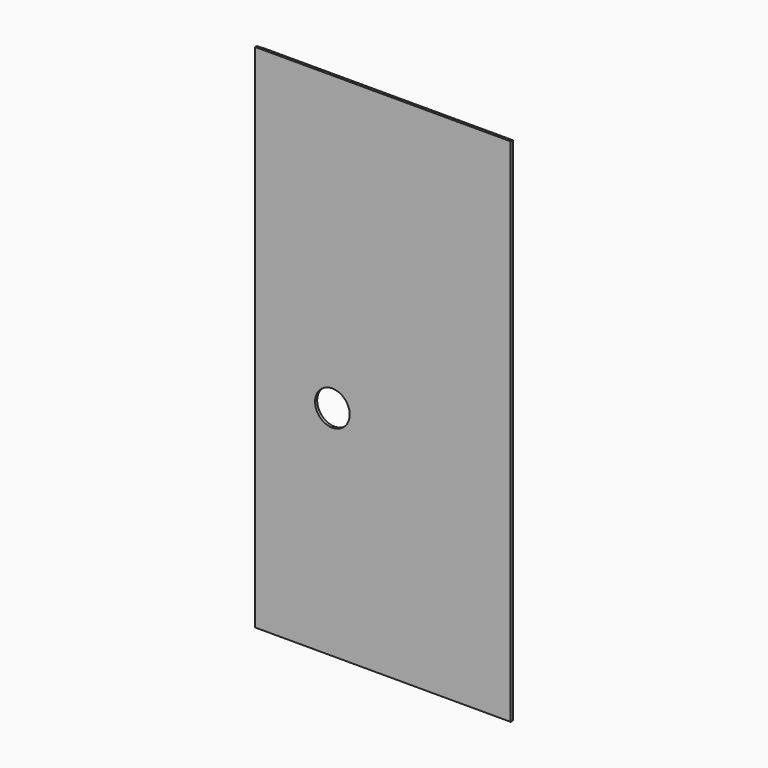
from build123d import *

# Parameters (mm, degrees)
F1_DEPTH = 2438.4
F2_R     = 82.55
F3_DEPTH = 25.4


with BuildPart() as f1:
    # F0 (on Top) → F1 (new body)
    with BuildSketch(Plane.XY):
        Polygon((-609.6, 3.175), (-609.6, -6.35), (609.6, -6.35), (609.6, 6.35), (-571.5, 6.35), align=None)
    extrude(amount=F1_DEPTH)

    # F2 (on face) → F3 (cut)
    with BuildSketch(Plane.XZ.offset(6.35)):
        with Locations((-241.3, 1041.4)):
            Circle(F2_R)
    extrude(amount=-F3_DEPTH, mode=Mode.SUBTRACT)


solid = f1.part
